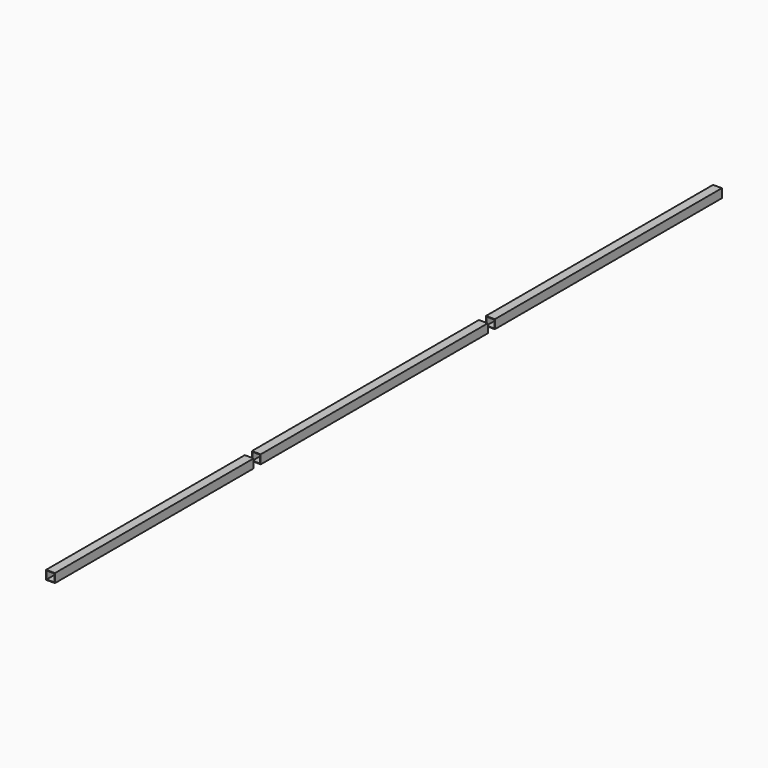
from build123d import *

# Parameters (mm, degrees)
F0_W     = 25.4
F0_H     = 25.4
F0_W_2   = 22.2504
F0_H_2   = 22.2504
F1_DEPTH = 812.8
F3_START = 25.4
F2_W     = 25.4
F2_H     = 25.4
F2_W_2   = 22.2504
F2_H_2   = 22.2504
F3_DEPTH = 812.8
F5_START = 25.4
F4_W     = 25.4
F4_H     = 25.4
F4_W_2   = 22.2504
F4_H_2   = 22.2504
F5_DEPTH = 711.2


with BuildPart() as f1:
    # F0 (on Front) → F1 (new body)
    with BuildSketch(Plane.XZ):
        Rectangle(F0_W, F0_H)
        Rectangle(F0_W_2, F0_H_2, mode=Mode.SUBTRACT)
    extrude(amount=F1_DEPTH)


with BuildPart() as f3:
    # F2 (on face) → F3 (new body)
    with BuildSketch(Plane.XZ.offset(812.8).offset(F3_START)):
        Rectangle(F2_W, F2_H)
        Rectangle(F2_W_2, F2_H_2, mode=Mode.SUBTRACT)
    extrude(amount=F3_DEPTH)


with BuildPart() as f5:
    # F4 (on face) → F5 (new body)
    with BuildSketch(Plane.XZ.offset(1651).offset(F5_START)):
        Rectangle(F4_W, F4_H)
        Rectangle(F4_W_2, F4_H_2, mode=Mode.SUBTRACT)
    extrude(amount=F5_DEPTH)


solid = Compound([f1.part, f3.part, f5.part])
